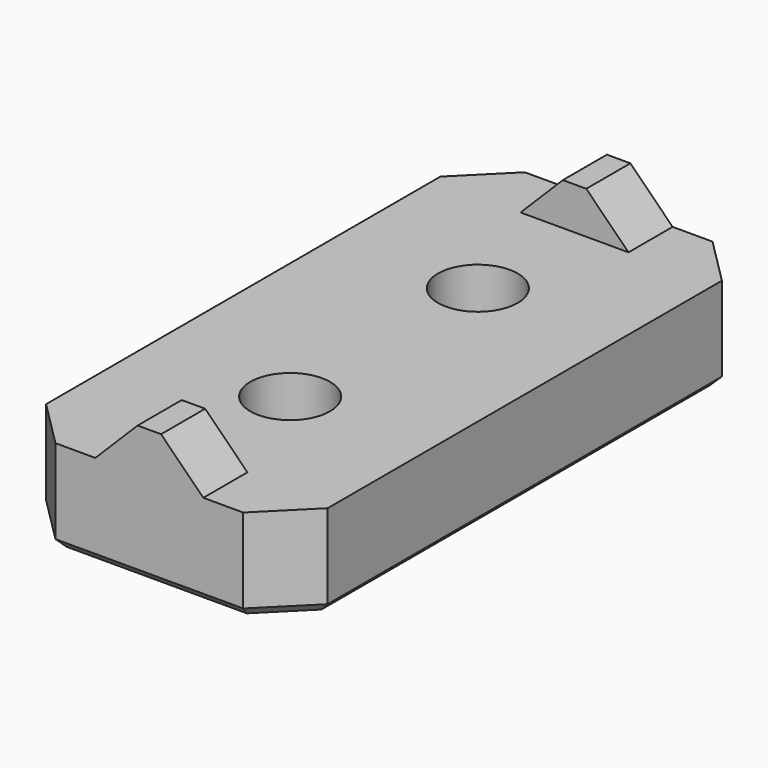
from build123d import *

# Parameters (mm, degrees)
CYLINDER023_R     = 1.7
CYLINDER023_DEPTH = 10
CYLINDER022_R     = 1.7
CYLINDER022_DEPTH = 10
BOX002013_W       = 5
BOX002013_H       = 20.3
BOX002013_DEPTH   = 2.8
BOX002014_W       = 5
BOX002014_H       = 25
BOX002014_DEPTH   = 2.8
CHAMFER008_SIZE   = 2
BOX002012_W       = 12
BOX002012_H       = 25
BOX002012_DEPTH   = 4
CHAMFER009_SIZE   = 2
CHAMFER010_SIZE   = 0.4


with BuildPart() as cylinder023:
    # Cylinder023 → Cylinder023 (new body)
    with BuildSketch(Plane(origin=(0, 7.5, 0), x_dir=(1, 0, 0), z_dir=(0, 0, 1))):
        Circle(CYLINDER023_R)
    extrude(amount=CYLINDER023_DEPTH)


with BuildPart() as fusion017:
    # Cylinder022 → Cylinder022 (new body)
    with BuildSketch(Plane(origin=(0, 17.5, 0), x_dir=(1, 0, 0), z_dir=(0, 0, 1))):
        Circle(CYLINDER022_R)
    extrude(amount=CYLINDER022_DEPTH)

    # Fusion017: union Cylinder023
    add(cylinder023.part)


with BuildPart() as cube015:
    # Box002013 → Box002013 (new body)
    with BuildSketch(Plane(origin=(-2.5, 2.35, 3), x_dir=(1, 0, 0), z_dir=(0, 0, 1))):
        with Locations((2.5, 10.15)):
            Rectangle(BOX002013_W, BOX002013_H)
    extrude(amount=BOX002013_DEPTH)


with BuildPart() as cut001018:
    # Box002014 → Box002014 (new body)
    with BuildSketch(Plane(origin=(-2.5, 0, 3), x_dir=(1, 0, 0), z_dir=(0, 0, 1))):
        with Locations((2.5, 12.5)):
            Rectangle(BOX002014_W, BOX002014_H)
    extrude(amount=BOX002014_DEPTH)

    # Chamfer008
    chamfer008_edges = [cut001018.edges().sort_by_distance(p)[0] for p in [
        (-2.5, 12.5, 5.8),
        (2.5, 12.5, 5.8),
    ]]
    chamfer(chamfer008_edges, length=CHAMFER008_SIZE)

    # Cut001018: cut Cube015
    add(cube015.part, mode=Mode.SUBTRACT)


with BuildPart() as joiner:
    # Box002012 → Box002012 (new body)
    with BuildSketch(Plane(origin=(-6, 0, 0), x_dir=(1, 0, 0), z_dir=(0, 0, 1))):
        with Locations((6, 12.5)):
            Rectangle(BOX002012_W, BOX002012_H)
    extrude(amount=BOX002012_DEPTH)

    # Fusion016: union Cut001018
    add(cut001018.part)

    # Cut001019: cut Fusion017
    add(fusion017.part, mode=Mode.SUBTRACT)

    # Chamfer009
    chamfer009_edges = [joiner.edges().sort_by_distance(p)[0] for p in [
        (-6, 0, 2),
        (-6, 25, 2),
        (6, 0, 2),
        (6, 25, 2),
    ]]
    chamfer(chamfer009_edges, length=CHAMFER009_SIZE)

    # Chamfer010
    chamfer010_edges = [joiner.edges().sort_by_distance(p)[0] for p in [
        (-6, 12.5, 0),
        (-5, 1, 0),
        (-5, 24, 0),
        (0, 0, 0),
        (0, 25, 0),
        (5, 1, 0),
        (5, 24, 0),
        (6, 12.5, 0),
        (-1.7, 17.5, 0),
        (-1.7, 7.5, 0),
    ]]
    chamfer(chamfer010_edges, length=CHAMFER010_SIZE)


solid = joiner.part
